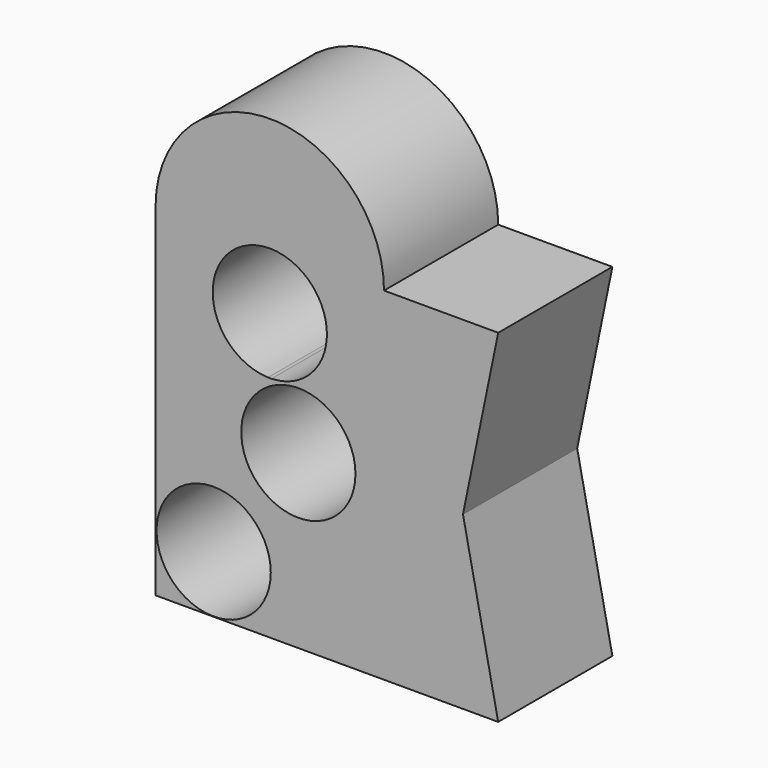
from build123d import *

# Parameters (mm, degrees)
F0_R     = 20
F1_DEPTH = 50


with BuildPart() as f1:
    # F0 (on Front) → F1 (new body)
    with BuildSketch(Plane.XZ):
        with BuildLine():
            Line((-40, 58.3991758844), (40, 58.3991758844))
            ThreePointArc((40, 58.3991758844), (0, 98.3991758844), (-40, 58.3991758844))
        make_face()
        with BuildLine():
            Line((40, -61.6008241156), (40, 58.3991758844))
            ThreePointArc((40, 58.3991758844), (28.5009581568, 30.3332644588), (0.6152307927, 18.4039075258))
            ThreePointArc((0.6152307927, 18.4039075258), (0, 18.394442563), (-0.6152307927, 18.4039075258))
            ThreePointArc((-0.6152307927, 18.4039075258), (-28.5009581568, 30.3332644588), (-40, 58.3991758844))
            Line((-40, 58.3991758844), (-40, -61.6008241156))
            Line((-40, -61.6008241156), (40, -61.6008241156))
        make_face()
        with Locations((-19.6570269763, -41.4880953831)):
            Circle(F0_R, mode=Mode.SUBTRACT)
        with Locations((10, -1.4268804444)):
            Circle(F0_R, mode=Mode.SUBTRACT)
        with BuildLine():
            ThreePointArc((0.6152307927, 18.4039075258), (28.5009581568, 30.3332644588), (40, 58.3991758844))
            Line((40, 58.3991758844), (-40, 58.3991758844))
            ThreePointArc((-40, 58.3991758844), (-28.5009581568, 30.3332644588), (-0.6152307927, 18.4039075258))
            ThreePointArc((-0.6152307927, 18.4039075258), (-13.9229196677, 52.7524475751), (20, 38.394442563))
            ThreePointArc((20, 38.394442563), (14.3580050121, 24.4715228953), (0.6152307927, 18.4039075258))
        make_face()
        Polygon((80, 58.3991758844), (40, 58.3991758844), (40, -61.6008241156), (80, -61.6008241156), (67.6620230079, -1.6008241156), align=None)
    extrude(amount=F1_DEPTH)


solid = f1.part
